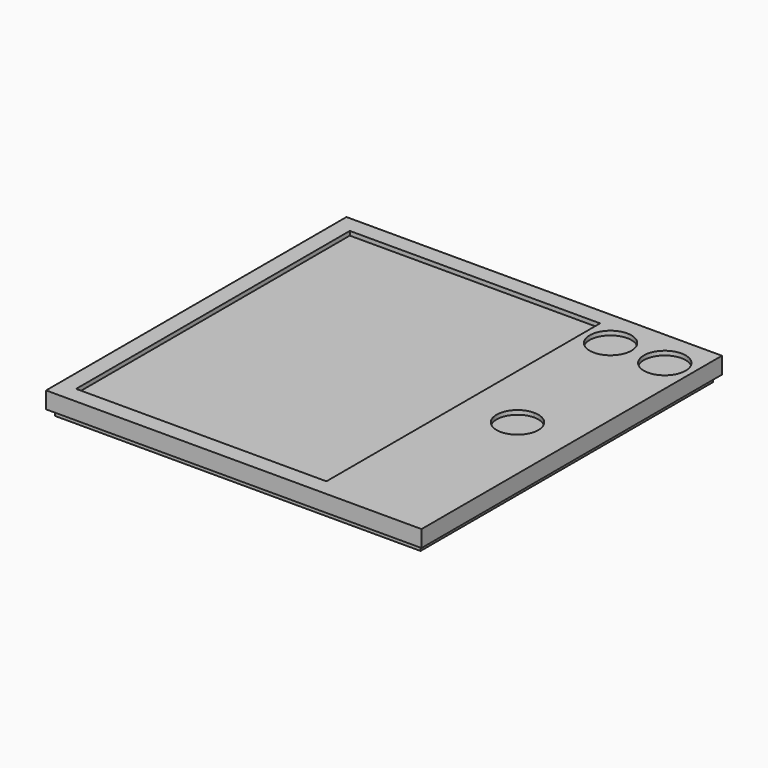
from build123d import *

# Parameters (mm, degrees)
F0_W      = 114.3
F0_H      = 114.3
F1_DEPTH  = 2.54
F2_W      = 114.3
F2_H      = 25.4
F3_DEPTH  = 2.54
F5_W      = 109.22
F5_H      = 25.4
F6_DEPTH  = 2.54
F8_W      = 114.3
F8_H      = 114.3
F8_W_2    = 109.22
F8_H_2    = 109.22
F9_DEPTH  = 2.54
F10_W     = 114.3
F10_H     = 114.3
F11_DEPTH = 2.54
F12_W     = 76.2
F12_H     = 104.14
F13_DEPTH = 1.27
F14_R     = 6.35
F15_DEPTH = 1.27
F17_W     = 111.252
F17_H     = 111.252
F18_DEPTH = 1.905


with BuildPart() as f1:
    # F0 (on Top) → F1 (new body)
    with BuildSketch(Plane.XY):
        Rectangle(F0_W, F0_H)
    extrude(amount=F1_DEPTH)

    # F4: F3 across plane


with BuildPart() as f3:
    # F2 (on face) → F3 (new body)
    with BuildSketch(Plane.YZ.offset(57.15)):
        with Locations((0, 15.24)):
            Rectangle(F2_W, F2_H)
    extrude(amount=-F3_DEPTH)


with BuildPart() as f1_1:
    add(f1.part)
    add(f3.part.mirror(Plane.YZ))


    add(f3.part)  # F6 merges F3
    # F5 (on face) → F6 (join)
    with BuildSketch(Plane(origin=(0, 57.15, 0), x_dir=(-1, 0, 0), z_dir=(0, 1, 0))):
        with Locations((0, 15.24)):
            Rectangle(F5_W, F5_H)
    extrude(amount=-F6_DEPTH)

    # F7: F1 across plane


with BuildPart() as f1_2:
    add(f1_1.part)
    add(f1_1.part.mirror(Plane.XZ))


with BuildPart() as f9:
    # F8 (on face) → F9 (new body)
    with BuildSketch(Plane.XY.offset(27.94)):
        Rectangle(F8_W, F8_H)
        Rectangle(F8_W_2, F8_H_2, mode=Mode.SUBTRACT)
        Rectangle(F8_W_2, F8_H_2)
    extrude(amount=F9_DEPTH)

    # F10 (on face) → F11 (join)
    with BuildSketch(Plane.XY.offset(30.48)):
        Rectangle(F10_W, F10_H)
    extrude(amount=F11_DEPTH)

    # F12 (on face) → F13 (cut)
    with BuildSketch(Plane.XY.offset(33.02)):
        with Locations((-13.97, 0)):
            Rectangle(F12_W, F12_H)
    extrude(amount=-F13_DEPTH, mode=Mode.SUBTRACT)

    # F14 (on face) → F15 (cut)
    with BuildSketch(Plane.XY.offset(33.02)):
        with BuildLine():
            ThreePointArc((55.245, 45.72), (48.895, 52.07), (42.545, 45.72))
            ThreePointArc((42.545, 45.72), (48.895, 39.37), (55.245, 45.72))
        make_face()
        with Locations((32.385, 45.72)):
            Circle(F14_R)
        with BuildLine():
            ThreePointArc((40.64, 6.35), (36.1498719395, -4.4901280605), (46.99, 0))
            ThreePointArc((46.99, 0), (45.1301280605, 4.4901280605), (40.64, 6.35))
        make_face()
    extrude(amount=-F15_DEPTH, mode=Mode.SUBTRACT)


with BuildPart() as f18:
    # F17 (on face) → F18 (new body)
    with BuildSketch(Plane(origin=(0, 0, 27.94), x_dir=(1, 0, 0), z_dir=(0, 0, -1))):
        Rectangle(F17_W, F17_H)
    extrude(amount=F18_DEPTH)


solid = Compound([f9.part, f18.part])
